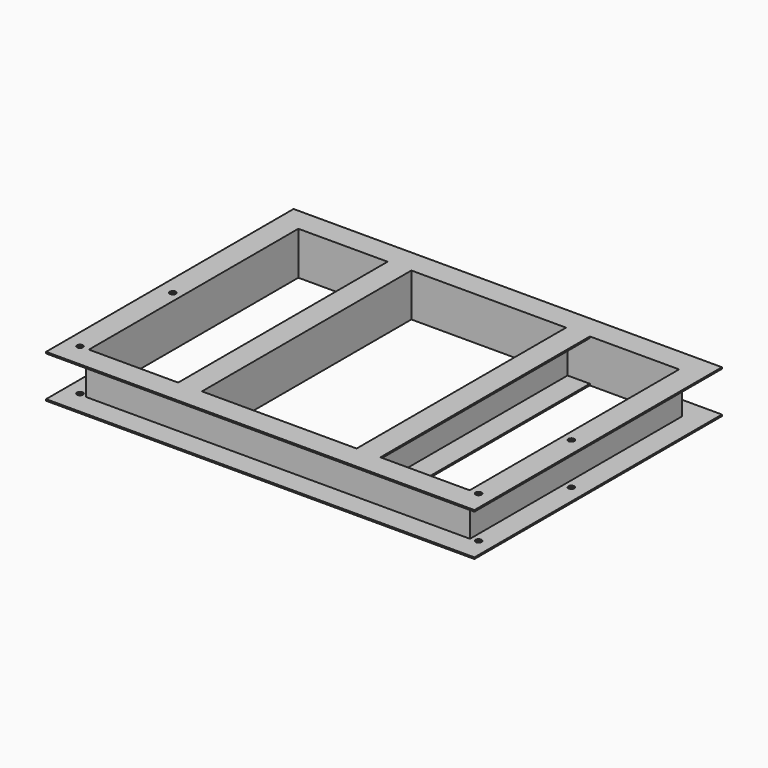
from build123d import *

# Parameters (mm, degrees)
F4_DEPTH = 558.8
F5_R     = 6.35
F6_DEPTH = 92.076


with BuildPart() as f2:
    # F2: sweep along a path in F0
    with BuildLine(Plane.XY) as f2_path:
        Line((406.4, 279.4), (-406.4, 279.4))
        Line((-406.4, 279.4), (-406.4, -279.4))
        Line((-406.4, -279.4), (406.4, -279.4))
        Line((406.4, -279.4), (406.4, 279.4))
    # F1 (on Front) → F2 (sweep)
    with BuildSketch(Plane.XZ):
        Polygon((406.4, 46.0375), (406.4, 0), (406.4, -46.0375), (457.2, -46.0375), (457.2, -42.8625), (409.575, -42.8625), (409.575, 42.8625), (457.2, 42.8625), (457.2, 46.0375), align=None)
    sweep(path=f2_path.line, transition=Transition.RIGHT)

    # F3 (on face) → F4 (join, through all)
    with BuildSketch(Plane.XZ.offset(-279.4)):
        Polygon((-165.1, 46.0375), (-215.9, 46.0375), (-215.9, 42.8625), (-168.275, 42.8625), (-168.275, -42.8625), (-215.9, -42.8625), (-215.9, -46.0375), (-165.1, -46.0375), align=None)
        Polygon((165.1, -46.0375), (215.9, -46.0375), (215.9, -42.8625), (168.275, -42.8625), (168.275, 42.8625), (215.9, 42.8625), (215.9, 46.0375), (165.1, 46.0375), align=None)
    extrude(amount=F4_DEPTH)

    # F5 (on face) → F6 (cut, through all)
    with BuildSketch(Plane.XY.offset(46.0375)):
        with Locations((-425.45, -279.4)):
            Circle(F5_R)
        with Locations((-425.45, -31.75)):
            Circle(F5_R)
        with Locations((425.45, -279.4)):
            Circle(F5_R)
        with Locations((425.45, -31.75)):
            Circle(F5_R)
    extrude(amount=-F6_DEPTH, mode=Mode.SUBTRACT)


solid = f2.part
